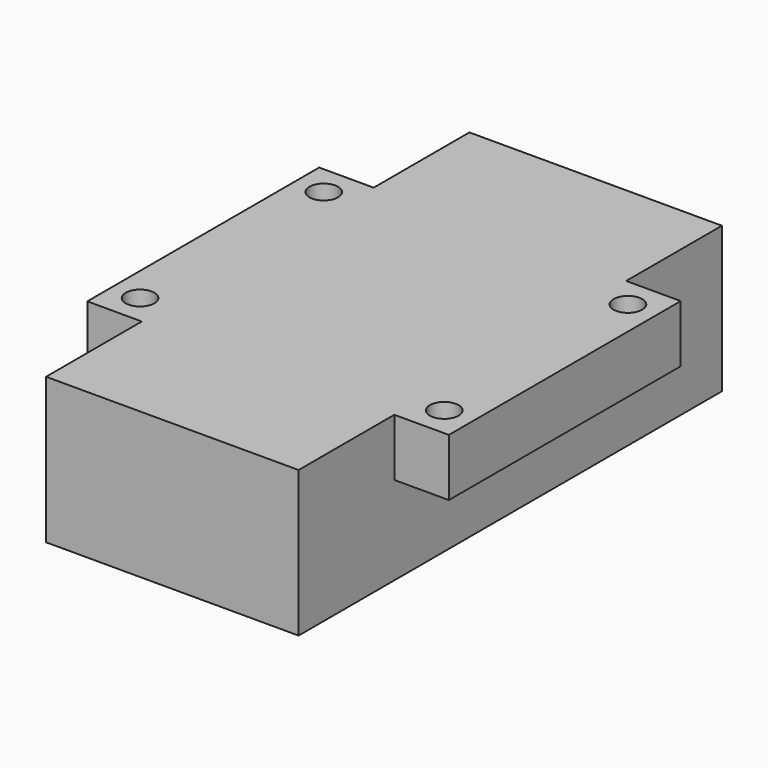
from build123d import *

# Parameters (mm, degrees)
F0_W     = 44
F0_H     = 25.4
F1_DEPTH = 92.2
F3_W     = 63
F3_H     = 50.5
F3_R     = 2.5
F2_W     = 44
F2_H     = 92.2
F4_DEPTH = 10


with BuildPart() as f1:
    # F0 (on Front) → F1 (new body)
    with BuildSketch(Plane.XZ):
        Rectangle(F0_W, F0_H)
    extrude(amount=-F1_DEPTH)

    # F3 (on face) + F2 (on face) → F4 (join)
    with BuildSketch(Plane.XY.offset(12.7)):
        with Locations((0, 46.1)):
            Rectangle(F3_W, F3_H)
        with Locations((-26.5, 26.1)):
            Circle(F3_R, mode=Mode.SUBTRACT)
        with Locations((26.5, 26.1)):
            Circle(F3_R, mode=Mode.SUBTRACT)
        with Locations((-26.5, 66.1)):
            Circle(F3_R, mode=Mode.SUBTRACT)
        with Locations((26.5, 66.1)):
            Circle(F3_R, mode=Mode.SUBTRACT)
    with BuildSketch(Plane.XY.offset(12.7)):
        with Locations((0, 46.1)):
            Rectangle(F2_W, F2_H)
    extrude(amount=-F4_DEPTH)


solid = f1.part
